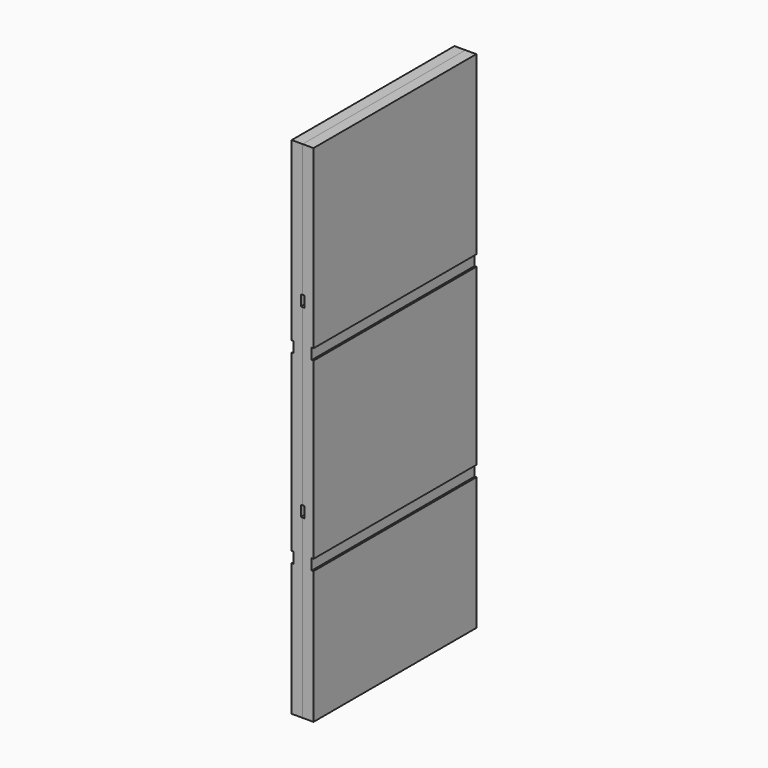
from build123d import *

# Parameters (mm, degrees)
F0_W     = 355.6
F0_H     = 19.05
F0_H_2   = 231.775
F0_H_3   = 307.975
F0_H_4   = 304.8
F1_DEPTH = 19.05
F2_DEPTH = 3.175
F3_W     = 355.6
F3_H     = 19.05
F4_DEPTH = 3.175


with BuildPart() as f1:
    # F0 (on Right) → F1 (new body)
    with BuildSketch(Plane.YZ):
        with Locations((-596.972364, 236.693677)):
            Rectangle(F0_W, F0_H)
        with Locations((-596.972364, -87.156323)):
            Rectangle(F0_W, F0_H)
        with Locations((-596.972364, 362.106177)):
            Rectangle(F0_W, F0_H_2)
        with Locations((-596.972364, -250.668823)):
            Rectangle(F0_W, F0_H_3)
        with Locations((-596.972364, 74.768677)):
            Rectangle(F0_W, F0_H_4)
    extrude(amount=F1_DEPTH)

    # F0 (on Right) → F2 (cut)
    with BuildSketch(Plane.YZ):
        with Locations((-596.972364, 236.693677)):
            Rectangle(F0_W, F0_H)
        with Locations((-596.972364, -87.156323)):
            Rectangle(F0_W, F0_H)
    extrude(amount=F2_DEPTH, mode=Mode.SUBTRACT)

    # F3 (on face) → F4 (cut)
    with BuildSketch(Plane.YZ.offset(19.05)):
        with Locations((-596.972364, 160.493677)):
            Rectangle(F3_W, F3_H)
        with Locations((-596.972364, -163.356323)):
            Rectangle(F3_W, F3_H)
    extrude(amount=-F4_DEPTH, mode=Mode.SUBTRACT)


with BuildPart() as f5_1:
    # F5: instance of F1
    add(f1.part.mirror(Plane.YZ))


solid = Compound([f1.part, f5_1.part])
